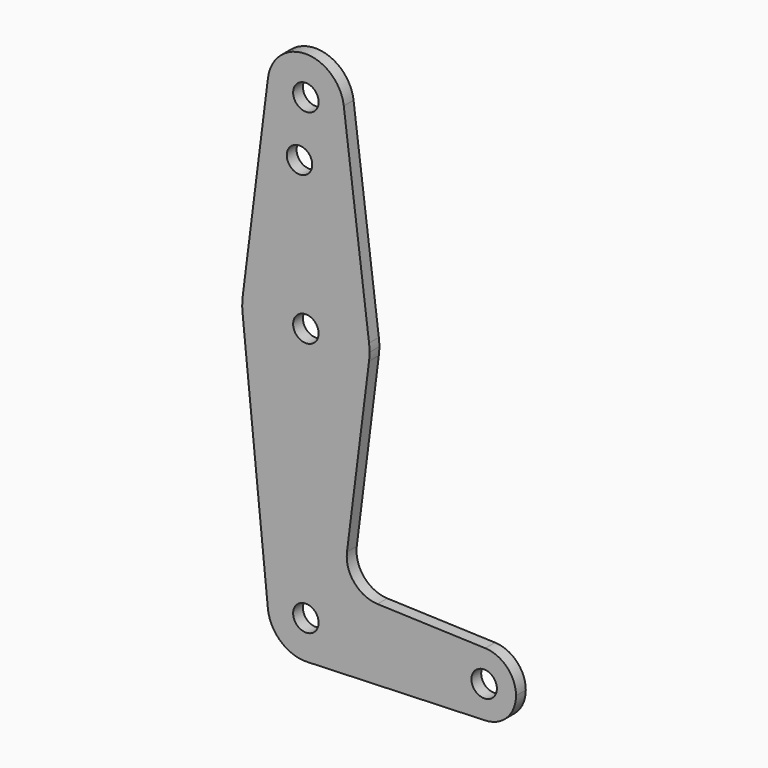
from build123d import *

# Parameters (mm, degrees)
F0_R     = 0.125
F1_DEPTH = 0.12


with BuildPart() as f1:
    # F0 (on Front) → F1 (new body)
    with BuildSketch(Plane.XZ):
        with BuildLine():
            ThreePointArc((0.013393, -0.374761), (0.269859, -0.260387), (0.375, 0))
            ThreePointArc((0.375, 0), (-0.018774, 0.37453), (-0.37312, -0.0375))
            ThreePointArc((-0.37312, -0.0375), (-0.246551, -0.282556), (0.013393, -0.374761))
        make_face()
        Circle(F0_R, mode=Mode.SUBTRACT)
        with BuildLine():
            ThreePointArc((-0.37312, -0.0375), (-0.018774, 0.37453), (0.375, 0))
            ThreePointArc((0.375, 0), (0.269859, -0.260387), (0.013393, -0.374761))
            Line((0.013393, -0.374761), (1.761161, -0.312301))
            ThreePointArc((1.761161, -0.312301), (1.4375, 0), (1.761161, 0.312301))
            Line((1.761161, 0.312301), (0.702787, 0.350124))
            ThreePointArc((0.702787, 0.350124), (0.475555, 0.46012), (0.40342, 0.702049))
            Line((0.40342, 0.702049), (0.620098, 2.421875))
            ThreePointArc((0.620098, 2.421875), (-0.007862, 1.875049), (-0.621867, 2.4375))
            Line((-0.621867, 2.4375), (-0.37312, -0.0375))
        make_face()
        with BuildLine():
            ThreePointArc((-0.620098, 2.578125), (-0.624951, 2.507862), (-0.621867, 2.4375))
            ThreePointArc((-0.621867, 2.4375), (-0.007862, 1.875049), (0.620098, 2.421875))
            ThreePointArc((0.620098, 2.421875), (0.623773, 2.460861), (0.625, 2.5))
            ThreePointArc((0.625, 2.5), (0.623773, 2.539139), (0.620098, 2.578125))
            ThreePointArc((0.620098, 2.578125), (0, 3.125), (-0.620098, 2.578125))
        make_face()
        with Locations((0, 2.5)):
            Circle(F0_R, mode=Mode.SUBTRACT)
        with BuildLine():
            ThreePointArc((1.761161, 0.312301), (1.4375, 0), (1.761161, -0.312301))
            ThreePointArc((1.761161, -0.312301), (1.974882, -0.216989), (2.0625, 0))
            ThreePointArc((2.0625, 0), (1.974882, 0.216989), (1.761161, 0.312301))
        make_face()
        with Locations((1.75, 0)):
            Circle(F0_R, mode=Mode.SUBTRACT)
        with BuildLine():
            Line((-0.372059, 4.546875), (-0.620098, 2.578125))
            ThreePointArc((-0.620098, 2.578125), (0, 3.125), (0.620098, 2.578125))
            Line((0.620098, 2.578125), (0.372059, 4.546875))
            ThreePointArc((0.372059, 4.546875), (0.374264, 4.523484), (0.375, 4.5))
            ThreePointArc((0.375, 4.5), (-0.023484, 4.125736), (-0.372059, 4.546875))
        make_face()
        with Locations((-0.0625, 3.938)):
            Circle(F0_R, mode=Mode.SUBTRACT)
        with BuildLine():
            ThreePointArc((0.372059, 4.546875), (0, 4.875), (-0.372059, 4.546875))
            ThreePointArc((-0.372059, 4.546875), (-0.023484, 4.125736), (0.375, 4.5))
            ThreePointArc((0.375, 4.5), (0.374264, 4.523484), (0.372059, 4.546875))
        make_face()
        with Locations((0, 4.5)):
            Circle(F0_R, mode=Mode.SUBTRACT)
    extrude(amount=F1_DEPTH)


solid = f1.part
